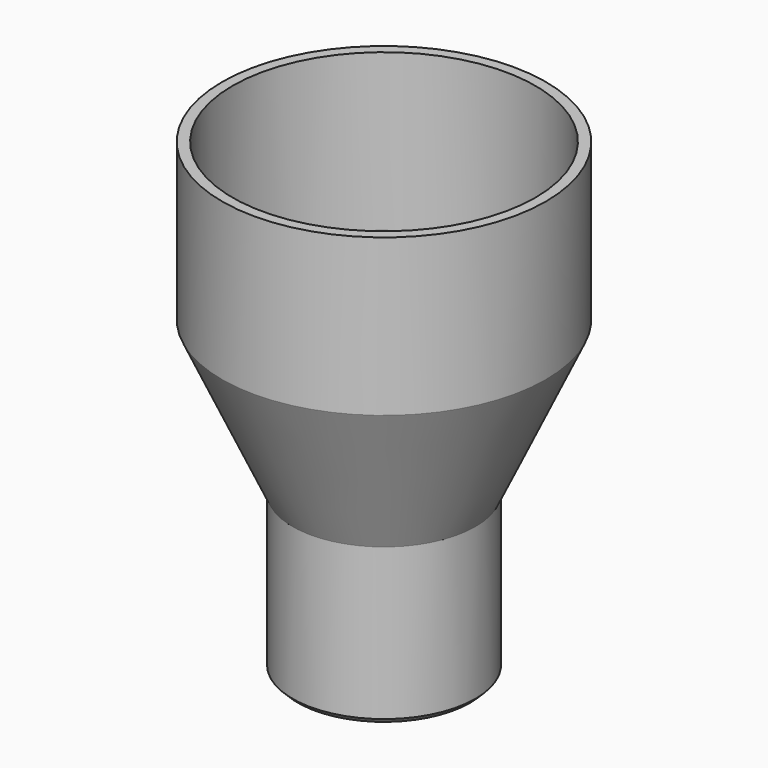
from build123d import *

# Parameters (mm, degrees)
F0_W    = 2
F0_H    = 30
F2_SIZE = 1


with BuildPart() as f1:
    # F0 (on Front) → F1 (revolve)
    with BuildSketch(Plane.XZ):
        with Locations((30, 36.346545)):
            Rectangle(F0_W, F0_H)
        Polygon((31, 21.346545), (29, 21.346545), (15.5, -7.885725), (17.5, -7.885725), align=None)
        with Locations((16.5, -22.885725)):
            Rectangle(F0_W, F0_H)
    revolve(axis=Axis((0, 0, 12.964369), (0, 0, 1)))

    # F2
    f2_edges = [f1.edges().sort_by_distance(p)[0] for p in [
        (-17.5, 0, -37.885725),
    ]]
    chamfer(f2_edges, length=F2_SIZE)


solid = f1.part
